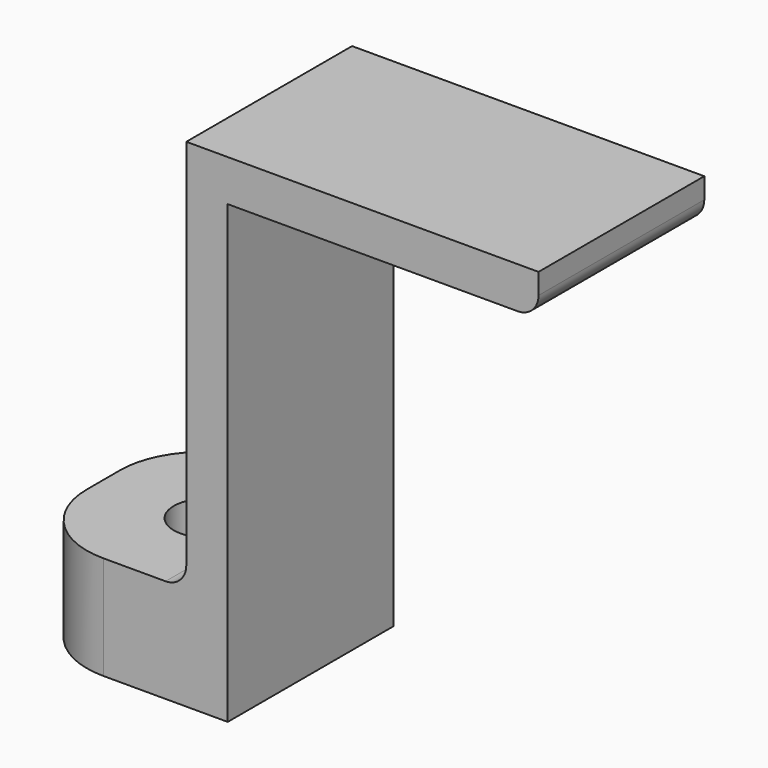
from build123d import *

# Parameters (mm, degrees)
PAD_DEPTH    = 10
SKETCH001_R  = 1.6
POCKET_DEPTH = 5
FILLET_R     = 1
FILLET001_R  = 4
FILLET002_R  = 1


with BuildPart() as part:
    # Sketch → Pad (new body)
    with BuildSketch(Plane.XZ):
        Polygon((0, 0), (0, 5), (8, 5), (8, 24), (25, 24), (25, 22), (10, 22), (10, 0), align=None)
    extrude(amount=PAD_DEPTH)

    # Sketch001 (on Face2 of Pad) → Pocket (cut)
    with BuildSketch(Plane(origin=(0, 0, 5), x_dir=(-1, 0, 0), z_dir=(0, 0, 1))):
        with Locations((-5, 5)):
            Circle(SKETCH001_R)
    extrude(amount=-POCKET_DEPTH, mode=Mode.SUBTRACT)

    # Fillet
    fillet_edges = [part.edges().sort_by_distance(p)[0] for p in [
        (8, -5, 5),
    ]]
    fillet(fillet_edges, radius=FILLET_R)

    # Fillet001
    fillet001_edges = [part.edges().sort_by_distance(p)[0] for p in [
        (0, 0, 2.5),
        (0, -10, 2.5),
    ]]
    fillet(fillet001_edges, radius=FILLET001_R)

    # Fillet002
    fillet002_edges = [part.edges().sort_by_distance(p)[0] for p in [
        (25, -5, 22),
    ]]
    fillet(fillet002_edges, radius=FILLET002_R)


solid = part.part
